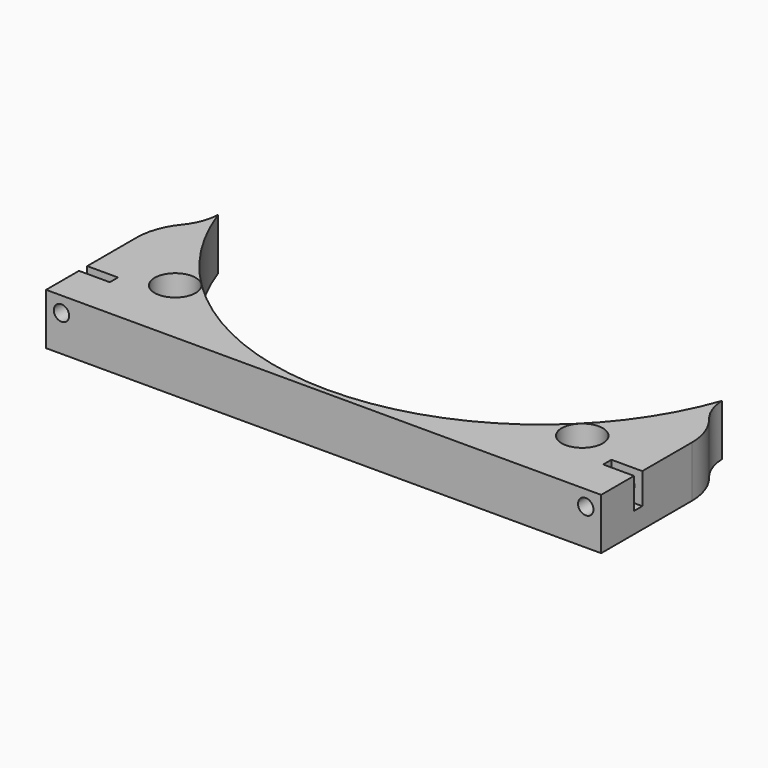
from build123d import *

# Parameters (mm, degrees)
CYLINDER870_R               = 1.5
CYLINDER870_DEPTH           = 20
CYLINDER865_R               = 1.5
CYLINDER865_DEPTH           = 20
CYLINDER862_R               = 1.5
CYLINDER862_DEPTH           = 20
CYLINDER868_R               = 1.5
CYLINDER868_DEPTH           = 20
BOX131_W                    = 6
BOX131_H                    = 2
BOX131_DEPTH                = 6
BOX130_W                    = 6
BOX130_H                    = 2
BOX130_DEPTH                = 6
BOX133_W                    = 6
BOX133_H                    = 2
BOX133_DEPTH                = 6
BOX132_W                    = 6
BOX132_H                    = 2
BOX132_DEPTH                = 6
CYLINDER872_R               = 4
CYLINDER872_DEPTH           = 20
CYLINDER872_PLACEMENT_ANGLE = 45
CYLINDER871_R               = 4
CYLINDER871_DEPTH           = 20
CYLINDER871_PLACEMENT_ANGLE = 45
CYLINDER863_R               = 10
CYLINDER863_DEPTH           = 40
CYLINDER908_R               = 10
CYLINDER908_DEPTH           = 40
CYLINDER864_R               = 52
CYLINDER864_DEPTH           = 10
BOX129_W                    = 108
BOX129_H                    = 36
BOX129_DEPTH                = 10
FILLET013_R                 = 12


with BuildPart() as obj1:
    # Cylinder870 → Cylinder870 (new body)
    with BuildSketch(Plane(origin=(20, -40, -5), x_dir=(1, 0, 0), z_dir=(0, -1, 0))):
        Circle(CYLINDER870_R)
    extrude(amount=CYLINDER870_DEPTH)


with BuildPart() as obj2:
    # Cylinder865 → Cylinder865 (new body)
    with BuildSketch(Plane(origin=(51, -40, 7), x_dir=(1, 0, 0), z_dir=(0, -1, 0))):
        Circle(CYLINDER865_R)
    extrude(amount=CYLINDER865_DEPTH)


with BuildPart() as obj3:
    # Cylinder862 → Cylinder862 (new body)
    with BuildSketch(Plane(origin=(-51, -40, 7), x_dir=(1, 0, 0), z_dir=(0, -1, 0))):
        Circle(CYLINDER862_R)
    extrude(amount=CYLINDER862_DEPTH)


with BuildPart() as compound261:
    # Cylinder868 → Cylinder868 (new body)
    with BuildSketch(Plane(origin=(-20, -40, -5), x_dir=(1, 0, 0), z_dir=(0, -1, 0))):
        Circle(CYLINDER868_R)
    extrude(amount=CYLINDER868_DEPTH)

    # Compound261: union obj1, obj2, obj3
    add(obj1.part)
    add(obj2.part)
    add(obj3.part)


with BuildPart() as krychle131:
    # Box131 → Box131 (new body)
    with BuildSketch(Plane(origin=(17, -47, -8), x_dir=(1, 0, 0), z_dir=(0, 0, 1))):
        with Locations((3, 1)):
            Rectangle(BOX131_W, BOX131_H)
    extrude(amount=BOX131_DEPTH)


with BuildPart() as krychle130:
    # Box130 → Box130 (new body)
    with BuildSketch(Plane(origin=(48, -45, 4), x_dir=(1, 0, 0), z_dir=(0, 0, 1))):
        with Locations((3, 1)):
            Rectangle(BOX130_W, BOX130_H)
    extrude(amount=BOX130_DEPTH)


with BuildPart() as krychle133:
    # Box133 → Box133 (new body)
    with BuildSketch(Plane(origin=(-54, -45, 4), x_dir=(1, 0, 0), z_dir=(0, 0, 1))):
        with Locations((3, 1)):
            Rectangle(BOX133_W, BOX133_H)
    extrude(amount=BOX133_DEPTH)


with BuildPart() as compound258:
    # Box132 → Box132 (new body)
    with BuildSketch(Plane(origin=(-23, -47, -8), x_dir=(1, 0, 0), z_dir=(0, 0, 1))):
        with Locations((3, 1)):
            Rectangle(BOX132_W, BOX132_H)
    extrude(amount=BOX132_DEPTH)

    # Compound258: union Krychle131, Krychle130, Krychle133
    add(krychle131.part)
    add(krychle130.part)
    add(krychle133.part)


with BuildPart() as obj4:
    # Cylinder872 → Cylinder872 (new body)
    with BuildSketch(Plane.XY):
        Circle(CYLINDER872_R)
    extrude(amount=CYLINDER872_DEPTH)


with BuildPart() as obj4_1:
    # Cylinder872 placement: moved
    add(obj4.part.moved(Location((39.6, -39.6, -10))).rotate(Axis((39.6, -39.6, -10), (0, 0, 1)), CYLINDER872_PLACEMENT_ANGLE))


with BuildPart() as compound259:
    # Cylinder871 → Cylinder871 (new body)
    with BuildSketch(Plane.XY):
        Circle(CYLINDER871_R)
    extrude(amount=CYLINDER871_DEPTH)


with BuildPart() as compound259_1:
    # Cylinder871 placement: moved
    add(compound259.part.moved(Location((-39.6, -39.6, -10))).rotate(Axis((-39.6, -39.6, -10), (0, 0, -1)), CYLINDER871_PLACEMENT_ANGLE))

    # Compound259: union obj4
    add(obj4_1.part)


with BuildPart() as obj5:
    # Cylinder863 → Cylinder863 (new body)
    with BuildSketch(Plane(origin=(-59, -17, 0), x_dir=(1, 0, 0), z_dir=(0, 0, 1))):
        Circle(CYLINDER863_R)
    extrude(amount=CYLINDER863_DEPTH)


with BuildPart() as compound260:
    # Cylinder908 → Cylinder908 (new body)
    with BuildSketch(Plane(origin=(59, -17, 0), x_dir=(1, 0, 0), z_dir=(0, 0, 1))):
        Circle(CYLINDER908_R)
    extrude(amount=CYLINDER908_DEPTH)

    # Compound260: union obj5
    add(obj5.part)


with BuildPart() as obj6:
    # Cylinder864 → Cylinder864 (new body)
    with BuildSketch(Plane.XY.offset(20)):
        Circle(CYLINDER864_R)
    extrude(amount=CYLINDER864_DEPTH)


with BuildPart() as fillet013:
    # Box129 → Box129 (new body)
    with BuildSketch(Plane(origin=(-54, -53, 20), x_dir=(1, 0, 0), z_dir=(0, 0, 1))):
        with Locations((54, 18)):
            Rectangle(BOX129_W, BOX129_H)
    extrude(amount=BOX129_DEPTH)

    # Cut147: cut obj6
    add(obj6.part, mode=Mode.SUBTRACT)


with BuildPart() as fillet013_1:
    # Cut147 placement: moved
    add(fillet013.part.moved(Location((0, 0, -20))))

    # Cut146: cut Compound260
    add(compound260.part, mode=Mode.SUBTRACT)

    # Cut149: cut Compound259
    add(compound259_1.part, mode=Mode.SUBTRACT)

    # Cut148: cut Compound258
    add(compound258.part, mode=Mode.SUBTRACT)

    # Cut150: cut Compound261
    add(compound261.part, mode=Mode.SUBTRACT)

    # Fillet013
    fillet013_edges = [fillet013_1.edges().sort_by_distance(p)[0] for p in [
        (-54, -25.660254, 5),
        (54, -25.660254, 5),
    ]]
    fillet(fillet013_edges, radius=FILLET013_R)


solid = fillet013_1.part
